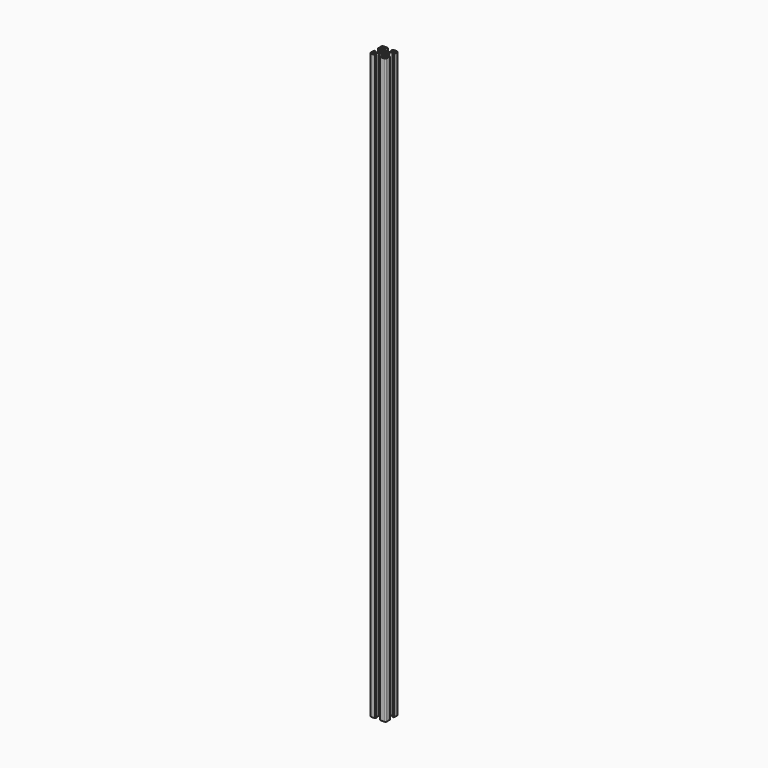
from build123d import *

# Parameters (mm, degrees)
F1_DEPTH = 550
F4_R     = 3.5
F5_DEPTH = 50


with BuildPart() as f1:
    # F0 (on Top) → F1 (new body, symmetric)
    with BuildSketch(Plane.XY):
        with BuildLine():
            Line((-5.1, 14), (-5.1, 15))
            Line((-5.1, 15), (-12.5, 15))
            ThreePointArc((-12.5, 15), (-14.267767, 14.267767), (-15, 12.5))
            Line((-15, 12.5), (-15, 5.1))
            Line((-15, 5.1), (-14, 5.1))
            Line((-14, 5.1), (-14, 4.1))
            Line((-14, 4.1), (-13, 4.1))
            Line((-13, 4.1), (-13, 8.25))
            Line((-13, 8.25), (-9.7, 8.25))
            Line((-9.7, 8.25), (-5.8, 4.35))
            Line((-5.8, 4.35), (-5.8, 0.5))
            Line((-5.8, 0.5), (-5.5, 0))
            Line((-5.5, 0), (-3.4, 0))
            ThreePointArc((-3.4, 0), (-2.404163, 2.404163), (0, 3.4))
            Line((0, 3.4), (0, 5.5))
            Line((0, 5.5), (-0.5, 5.8))
            Line((-0.5, 5.8), (-4.35, 5.8))
            Line((-4.35, 5.8), (-8.25, 9.7))
            Line((-8.25, 9.7), (-8.25, 13))
            Line((-8.25, 13), (-4.1, 13))
            Line((-4.1, 13), (-4.1, 14))
            Line((-4.1, 14), (-5.1, 14))
        make_face()
        with BuildLine():
            ThreePointArc((-13, 12.5), (-12.853553, 12.853553), (-12.5, 13))
            Line((-12.5, 13), (-10.75, 13))
            ThreePointArc((-10.75, 13), (-10.396447, 12.853553), (-10.25, 12.5))
            Line((-10.25, 12.5), (-10.25, 10.75))
            ThreePointArc((-10.25, 10.75), (-10.396447, 10.396447), (-10.75, 10.25))
            Line((-10.75, 10.25), (-12.5, 10.25))
            ThreePointArc((-12.5, 10.25), (-12.853553, 10.396447), (-13, 10.75))
            Line((-13, 10.75), (-13, 12.5))
        make_face(mode=Mode.SUBTRACT)
    extrude(amount=F1_DEPTH, both=True)

    # F2: F1 across face


with BuildPart() as f1_1:
    add(f1.part)
    add(f1.part.mirror(Plane(origin=(0, 4.45, 0), x_dir=(0, 1, 0), z_dir=(1, 0, 0))))

    # F3: F1 across face


with BuildPart() as f1_2:
    add(f1_1.part)
    add(f1_1.part.mirror(Plane(origin=(-4.45, 0, 0), x_dir=(1, 0, 0), z_dir=(0, -1, 0))))

    # F4 (on face) → F5 (cut)
    with BuildSketch(Plane.XZ.offset(15)):
        with Locations((0, 200)):
            Circle(F4_R)
        with Locations((0, -200)):
            Circle(F4_R)
    extrude(amount=-F5_DEPTH, mode=Mode.SUBTRACT)


solid = f1_2.part
